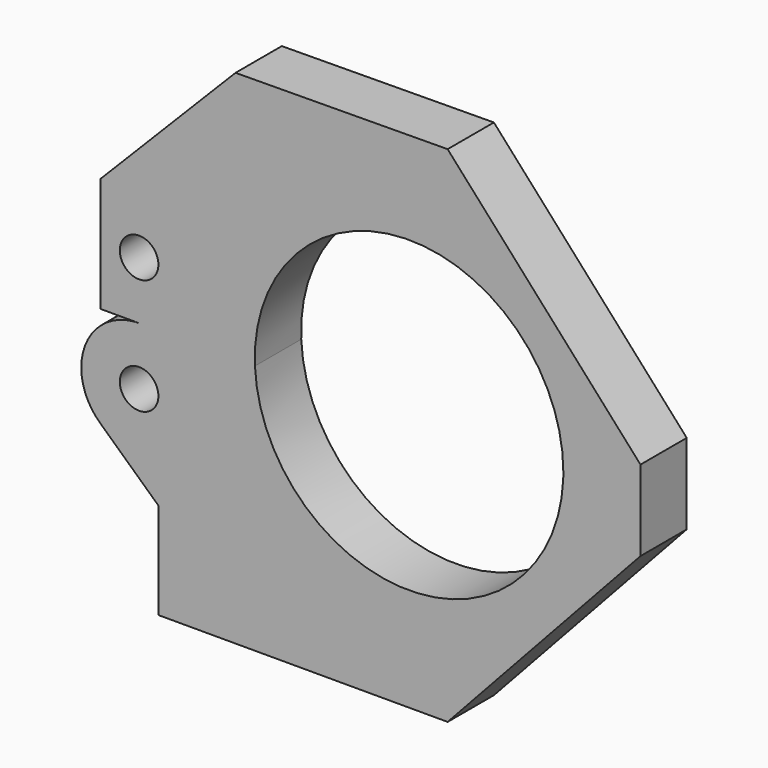
from build123d import *

# Parameters (mm, degrees)
F0_R     = 3.175
F1_DEPTH = 9.525
F2_DEPTH = 9.525


with BuildPart() as f1:
    # F0 (on Front) → F1 (new body)
    with BuildSketch(Plane.XZ):
        with BuildLine():
            Line((-23.813147, 35.108108), (-46.038147, 12.51385))
            Line((-46.038147, 12.51385), (-46.038147, -6.35))
            Line((-46.038147, -6.35), (-39.688147, -6.35))
            Line((-39.688147, -6.35), (-20.612767, -6.35))
            ThreePointArc((-20.612767, -6.35), (4.194114, 20.178848), (30.161853, -5.214807))
            ThreePointArc((30.161853, -5.214807), (30.155507, -5.782545), (30.136473, -6.35))
            Line((30.136473, -6.35), (42.861853, -6.35))
            Line((42.861853, -6.35), (42.861853, 0))
            Line((42.861853, 0), (11.111853, 35.395849))
            Line((11.111853, 35.395849), (-23.813147, 35.108108))
        make_face()
        with Locations((-39.688147, 3.175)):
            Circle(F0_R, mode=Mode.SUBTRACT)
    extrude(amount=F1_DEPTH)

    # F0 (on Front) → F2 (join)
    with BuildSketch(Plane.XZ):
        with BuildLine():
            Line((-20.612767, -6.35), (-39.688147, -6.35))
            ThreePointArc((-39.688147, -6.35), (-48.586139, -12.47627), (-46.038147, -22.974516))
            Line((-46.038147, -22.974516), (-36.513147, -31.75))
            Line((-36.513147, -31.75), (-36.513147, -47.625))
            Line((-36.513147, -47.625), (11.111853, -47.625))
            Line((11.111853, -47.625), (42.861853, -13.260503))
            Line((42.861853, -13.260503), (42.861853, -6.35))
            Line((42.861853, -6.35), (30.136473, -6.35))
            ThreePointArc((30.136473, -6.35), (4.761853, -30.614807), (-20.612767, -6.35))
        make_face()
        with Locations((-39.688147, -15.875)):
            Circle(F0_R, mode=Mode.SUBTRACT)
    extrude(amount=F2_DEPTH)


solid = f1.part
